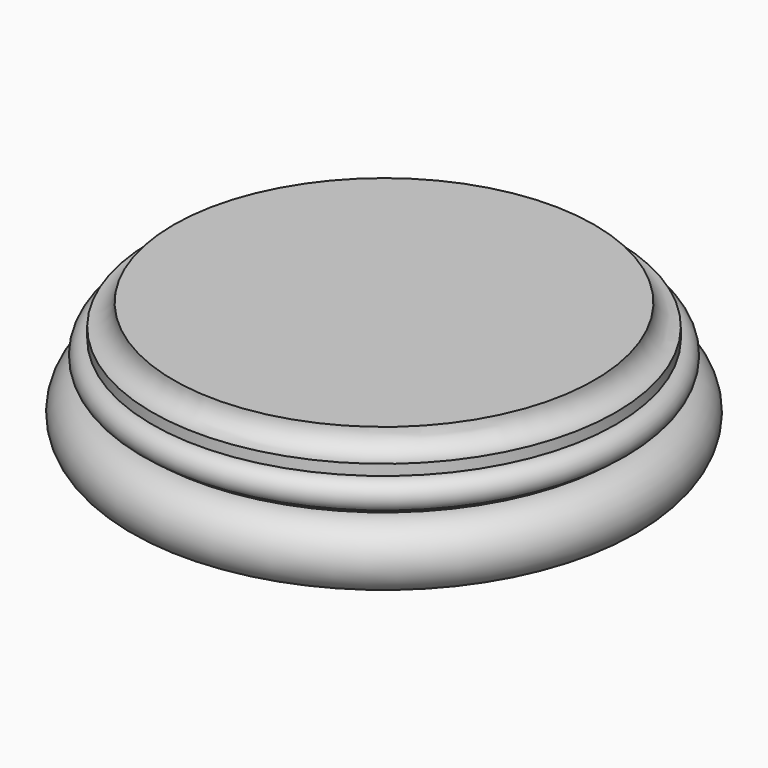
from build123d import *


with BuildPart() as f1:
    # F0 (on Front) → F1 (revolve)
    with BuildSketch(Plane.XZ):
        with BuildLine():
            Line((-325, 0), (0, 0))
            Line((0, 0), (0, 180))
            Line((0, 180), (-295, 180))
            ThreePointArc((-295, 180), (-303.786797, 158.786797), (-325, 150))
            Line((-325, 150), (-325, 135))
            ThreePointArc((-325, 135), (-345, 115), (-325, 95))
            Line((-325, 95), (-325, 90))
            ThreePointArc((-325, 90), (-370, 45), (-325, 0))
        make_face()
    revolve(axis=Axis((0, 0, 90), (0, 0, 1)))


solid = f1.part
